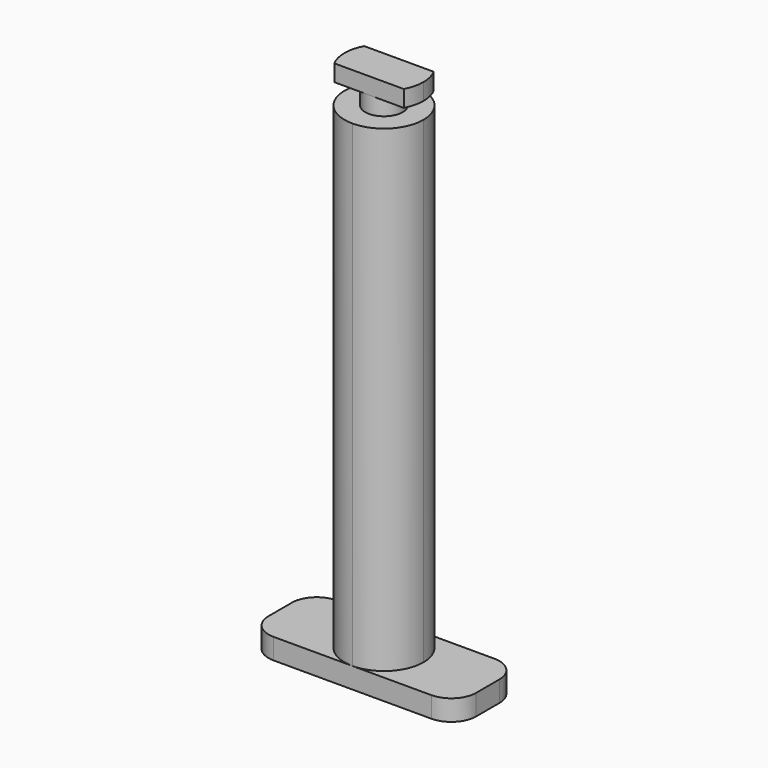
from build123d import *

# Parameters (mm, degrees)
F1_DEPTH = 115
F2_DEPTH = 5
F3_R     = 6
F4_R     = 4.5
F5_DEPTH = 4
F7_DEPTH = 4


with BuildPart() as f1:
    # F0 (on Top) → F1 (new body)
    with BuildSketch(Plane.XY):
        with BuildLine():
            ThreePointArc((-4.21e-08, -9.5), (6.7175144064, -6.7175144362), (9.5, 0))
            ThreePointArc((9.5, 0), (6.7175144305, 6.7175144121), (2.6e-08, 9.5))
            ThreePointArc((2.6e-08, 9.5), (-9.5, 3.4e-08), (-4.21e-08, -9.5))
        make_face()
    extrude(amount=F1_DEPTH)

    # F0 (on Top) → F2 (join)
    with BuildSketch(Plane.XY):
        with BuildLine():
            ThreePointArc((-4.21e-08, -9.5), (-9.5, 3.4e-08), (2.6e-08, 9.5))
            Line((2.6e-08, 9.5), (-25, 9.5))
            Line((-25, 9.5), (-25, -9.5))
            Line((-25, -9.5), (-4.21e-08, -9.5))
        make_face()
        with BuildLine():
            ThreePointArc((2.6e-08, 9.5), (6.7175144305, 6.7175144121), (9.5, 0))
            ThreePointArc((9.5, 0), (6.7175144064, -6.7175144362), (-4.21e-08, -9.5))
            Line((-4.21e-08, -9.5), (25, -9.5))
            Line((25, -9.5), (25, 9.5))
            Line((25, 9.5), (2.6e-08, 9.5))
        make_face()
        with BuildLine():
            ThreePointArc((-4.21e-08, -9.5), (6.7175144064, -6.7175144362), (9.5, 0))
            ThreePointArc((9.5, 0), (6.7175144305, 6.7175144121), (2.6e-08, 9.5))
            ThreePointArc((2.6e-08, 9.5), (-9.5, 3.4e-08), (-4.21e-08, -9.5))
        make_face()
    extrude(amount=-F2_DEPTH)

    # F3
    f3_edges = [f1.edges().sort_by_distance(p)[0] for p in [
        (-25, 9.5, -2.5),
        (-25, -9.5, -2.5),
        (25, 9.5, -2.5),
        (25, -9.5, -2.5),
    ]]
    fillet(f3_edges, radius=F3_R)

    # F4 (on face) → F5 (join)
    with BuildSketch(Plane.XY.offset(115)):
        Circle(F4_R)
    extrude(amount=F5_DEPTH)

    # F6 (on face) → F7 (join)
    with BuildSketch(Plane.XY.offset(119)):
        with BuildLine():
            ThreePointArc((4.5, 0), (3.1819805153, 3.1819805153), (0, 4.5))
            ThreePointArc((0, 4.5), (-4.5, 0), (0, -4.5))
            ThreePointArc((0, -4.5), (3.1819805153, -3.1819805153), (4.5, 0))
        make_face()
        with BuildLine():
            Line((0, 4.5), (-8.3666002653, 4.5))
            ThreePointArc((-8.3666002653, 4.5), (-9.2122934854, 2.3202691093), (-9.5, 0))
            ThreePointArc((-9.5, 0), (-9.2122934854, -2.3202691093), (-8.3666002653, -4.5))
            Line((-8.3666002653, -4.5), (0, -4.5))
            ThreePointArc((0, -4.5), (-4.5, 0), (0, 4.5))
        make_face()
        with BuildLine():
            Line((8.3666002653, 4.5), (0, 4.5))
            ThreePointArc((0, 4.5), (3.1819805153, 3.1819805153), (4.5, 0))
            ThreePointArc((4.5, 0), (3.1819805153, -3.1819805153), (0, -4.5))
            Line((0, -4.5), (8.3666002653, -4.5))
            ThreePointArc((8.3666002653, -4.5), (9.2122934854, -2.3202691093), (9.5, 0))
            ThreePointArc((9.5, 0), (9.2122934854, 2.3202691093), (8.3666002653, 4.5))
        make_face()
    extrude(amount=F7_DEPTH)


solid = f1.part
